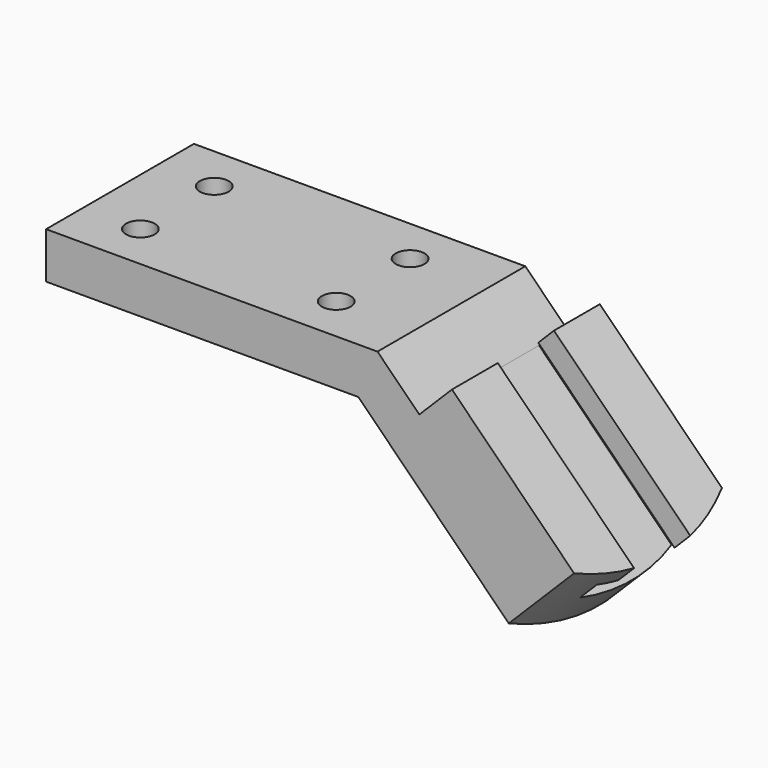
from build123d import *

# Parameters (mm, degrees)
F1_DEPTH       = 50.8
F4_D           = 7.9248
F4_CBORE_D     = 12.7
F4_CBORE_DEPTH = 6.096
F8_DEPTH       = 118.5292761031
F10_DEPTH      = 134.5312743793


with BuildPart() as f1:
    # F0 (on Front) → F1 (new body)
    with BuildSketch(Plane.XZ):
        Polygon((73.5405048588, 2.5144720178), (-17.5720074938, 2.5144720178), (-17.5720074938, -10.1855279822), (68.2799925062, -10.1855279822), (114.1312616571, -56.036798494), (132.0917741658, -38.0762865184), (94.0154887775, 0), (85.0352325232, -8.9802559878), align=None)
    extrude(amount=-F1_DEPTH)

    # F4 (through all)
    with Locations(Plane(origin=(0, 0, -10.1855279822), x_dir=(1, 0, 0), z_dir=(0, 0, -1))):
        with Locations((-1.8240074938, -12.7), (-1.8240074938, -38.1), (52.0239925062, -12.7), (52.0239925062, -38.1)):
            CounterBoreHole(F4_D / 2, F4_CBORE_D / 2, F4_CBORE_DEPTH)

    # F7 (on offset) → F8 (cut, through all)
    with BuildSketch(Plane(origin=(47.0077457841, 0, 47.0077443888), x_dir=(0, 1, 0), z_dir=(0.7071067917, 0, 0.7071067707))):
        with BuildLine():
            ThreePointArc((50.8, -113.9600070192), (25.4, -120.3269886645), (0, -113.9600070192))
            Line((0, -113.9600070192), (0, -123.4274804592))
            Line((0, -123.4274804592), (50.8, -123.4274804592))
            Line((50.8, -123.4274804592), (50.8, -113.9600070192))
        make_face()
    extrude(amount=-F8_DEPTH, mode=Mode.SUBTRACT)

    # F9 (on offset) → F10 (cut, through all)
    with BuildSketch(Plane(origin=(85.0840283817, 0, -85.0840309072), x_dir=(0.7071067917, 0, 0.7071067707), z_dir=(0.7071067707, 0, -0.7071067917))):
        Polygon((66.4789906378, -35.052), (66.4789906378, -15.748), (60.3829906378, -15.748), (60.3829906378, -9.652), (53.7789906378, -9.652), (53.7789906378, -41.148), (60.3829906378, -41.148), (60.3829906378, -35.052), align=None)
    extrude(amount=-F10_DEPTH, mode=Mode.SUBTRACT)


solid = f1.part
